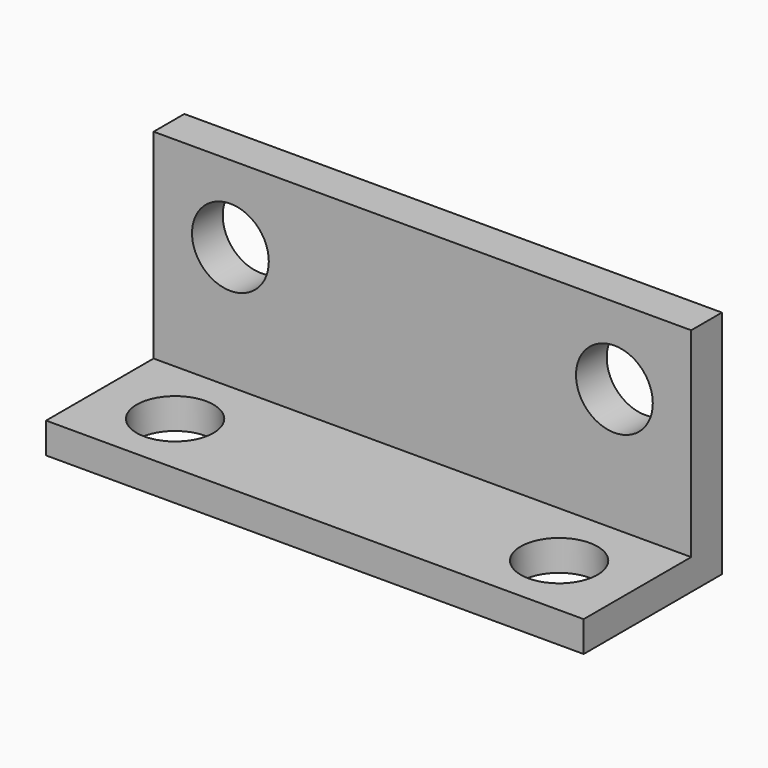
from build123d import *

# Parameters (mm, degrees)
F0_W     = 88.9
F0_H     = 33.02
F0_R     = 6.35
F1_DEPTH = 3.175
F0_H_2   = 5.08
F2_DEPTH = 25.4
F3_DEPTH = 3.175
F5_D     = 12.7


with BuildPart() as f1:
    # F0 (on Front) → F1 (new body, symmetric)
    with BuildSketch(Plane.XZ):
        with Locations((-26.614039, -3.81)):
            Rectangle(F0_W, F0_H)
        with Locations((-58.364039, 0)):
            Circle(F0_R, mode=Mode.SUBTRACT)
        with Locations((5.135961, 0)):
            Circle(F0_R, mode=Mode.SUBTRACT)
    extrude(amount=F1_DEPTH, both=True)

    # F0 (on Front) → F2 (join)
    with BuildSketch(Plane.XZ):
        with Locations((-26.614039, -22.86)):
            Rectangle(F0_W, F0_H_2)
    extrude(amount=F2_DEPTH)

    # F0 (on Front) → F3 (join)
    with BuildSketch(Plane.XZ):
        with Locations((-26.614039, -22.86)):
            Rectangle(F0_W, F0_H_2)
    extrude(amount=-F3_DEPTH)

    # F5 (through all)
    with Locations(Plane.XY):
        with Locations((-58.364039, -14.605), (5.135961, -14.605)):
            Hole(F5_D / 2)


solid = f1.part
